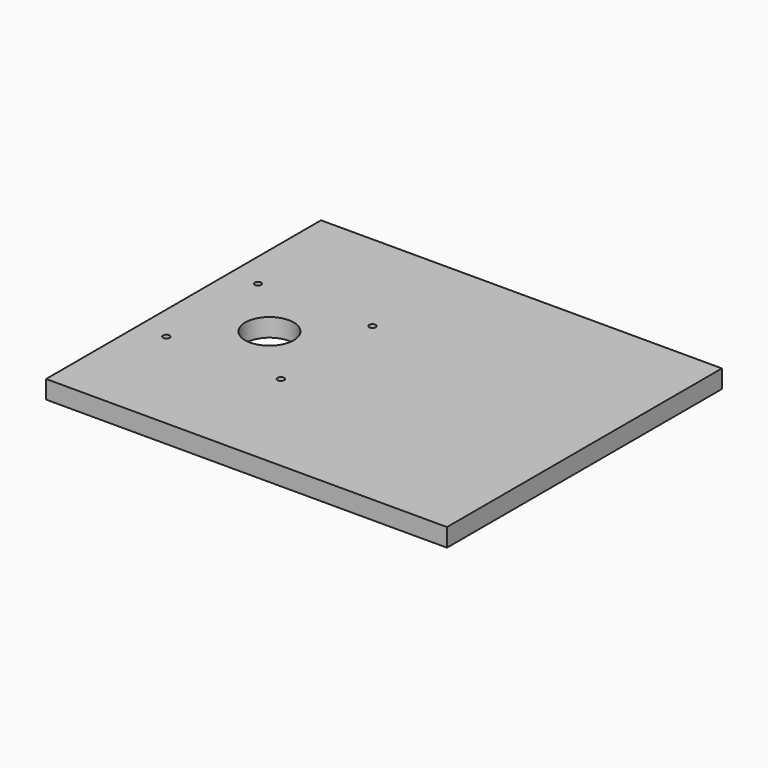
from build123d import *

# Parameters (mm, degrees)
F0_W     = 210
F0_H     = 180
F1_DEPTH = 9.525
F2_R     = 12.7
F2_R_2   = 1.7272
F3_DEPTH = 9.525


with BuildPart() as f1:
    # F0 (on Top) → F1 (new body)
    with BuildSketch(Plane.XY):
        Rectangle(F0_W, F0_H)
    extrude(amount=F1_DEPTH)

    # F2 (on face) → F3 (cut, through all)
    with BuildSketch(Plane.XY.offset(9.525)):
        with Locations((-60, 0)):
            Circle(F2_R)
        with Locations((-30, 30)):
            Circle(F2_R_2)
        with Locations((-30, -30)):
            Circle(F2_R_2)
        with Locations((-90, -30)):
            Circle(F2_R_2)
        with Locations((-90, 30)):
            Circle(F2_R_2)
    extrude(amount=-F3_DEPTH, mode=Mode.SUBTRACT)


solid = f1.part
